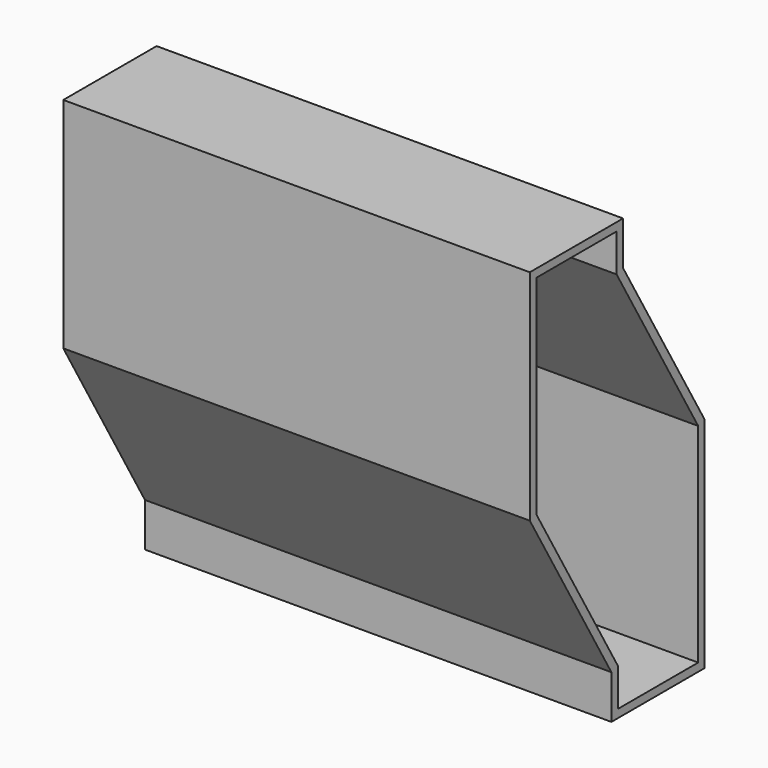
from build123d import *

# Parameters (mm, degrees)
F1_DEPTH = 101.6
F2_T     = -1.778


with BuildPart() as f1:
    # F0 (on Right) → F1 (new body)
    with BuildSketch(Plane.YZ):
        Polygon((25.4, 47.625), (0, 47.625), (0, 0), (22.225, -38.1), (22.225, -47.625), (47.625, -47.625), (47.625, 0), (25.4, 38.1), align=None)
    extrude(amount=F1_DEPTH)

    # F2
    f2_openings = [f1.faces().sort_by_distance(p)[0] for p in [
        (101.6, 23.8125, 0),
        (0, 23.8125, 0),
    ]]
    offset(amount=F2_T, openings=f2_openings, kind=Kind.INTERSECTION)


solid = f1.part
